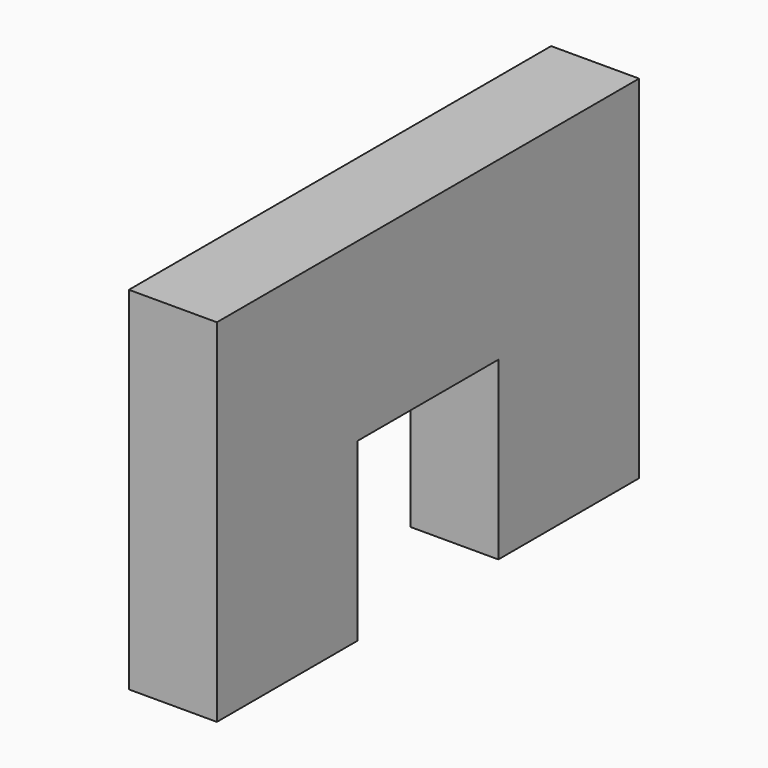
from build123d import *

# Parameters (mm, degrees)
F1_DEPTH = 5


with BuildPart() as f1:
    # F0 (on Right) → F1 (new body)
    with BuildSketch(Plane.YZ):
        Polygon((5, -10), (15, -10), (15, 10), (-15, 10), (-15, -10), (-5, -10), (-5, 0), (0, 0), (5, 0), align=None)
    extrude(amount=F1_DEPTH)


solid = f1.part
